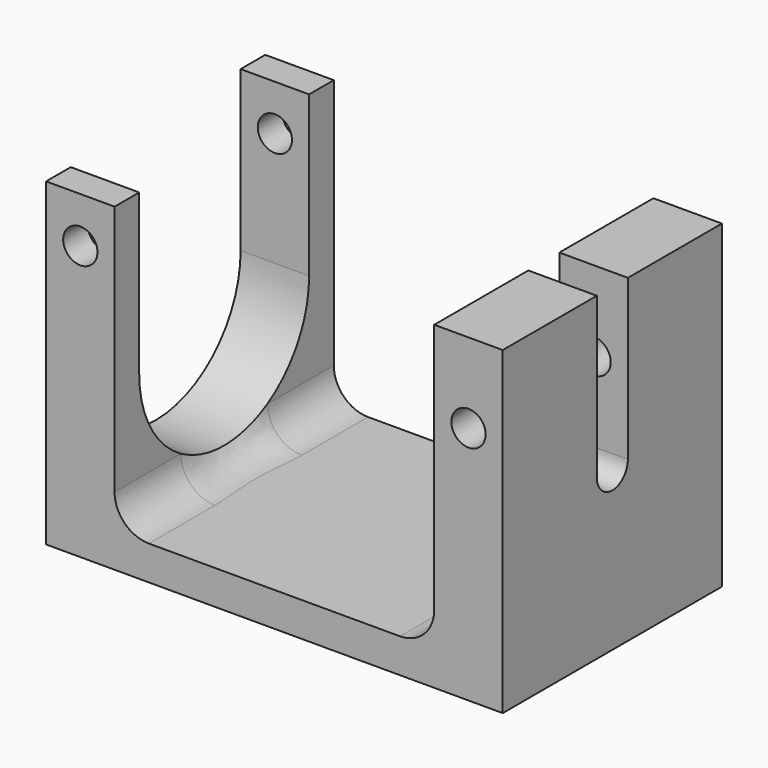
from build123d import *

# Parameters (mm, degrees)
SKETCH_W        = 40
SKETCH_H        = 24
PAD_DEPTH       = 3
SKETCH001_W     = 6
SKETCH001_H     = 24
PAD001_DEPTH    = 25
POCKET_DEPTH    = 6
POCKET001_DEPTH = 6
SKETCH005_R     = 1.5
POCKET002_DEPTH = 24.001
FILLET_R        = 3


with BuildPart() as part:
    # Sketch → Pad (new body)
    with BuildSketch(Plane.XY):
        Rectangle(SKETCH_W, SKETCH_H)
    extrude(amount=PAD_DEPTH)

    # Sketch001 (on Face6 of Pad) → Pad001 (join)
    with BuildSketch(Plane.XY.offset(3)):
        with Locations((-17, 0)):
            Rectangle(SKETCH001_W, SKETCH001_H)
        with Locations((17, 0)):
            Rectangle(SKETCH001_W, SKETCH001_H)
    extrude(amount=PAD001_DEPTH)

    # Sketch002 (on Face9 of Pad001) → Pocket (cut)
    with BuildSketch(Plane.YZ.offset(20)):
        with BuildLine():
            Line((-1.7, 28), (1.7, 28))
            Line((1.7, 28), (1.7, 13.999992))
            ThreePointArc((-1.7, 13.999989), (1e-06, 12.3), (1.7, 13.999992))
            Line((-1.7, 13.999989), (-1.7, 28))
        make_face()
    extrude(amount=-POCKET_DEPTH, mode=Mode.SUBTRACT)

    # Sketch004 (on Face12 of Pocket) → Pocket001 (cut)
    with BuildSketch(Plane(origin=(-20, 0, 0), x_dir=(0, -1, 0), z_dir=(-1, 0, 0))):
        with BuildLine():
            Line((-9.3, 28), (9.3, 28))
            Line((9.3, 28), (9.3, 14.000032))
            ThreePointArc((-9.3, 13.999973), (3e-05, 4.7), (9.3, 14.000032))
            Line((-9.3, 13.999973), (-9.3, 28))
        make_face()
    extrude(amount=-POCKET001_DEPTH, mode=Mode.SUBTRACT)

    # Sketch005 (on Face10 of Pocket001) → Pocket002 (cut, through all)
    with BuildSketch(Plane.XZ.offset(12)):
        with Locations((17, 21)):
            Circle(SKETCH005_R)
        with Locations((-17, 24)):
            Circle(SKETCH005_R)
    extrude(amount=-POCKET002_DEPTH, mode=Mode.SUBTRACT)

    # Fillet
    fillet_edges = [part.edges().sort_by_distance(p)[0] for p in [
        (-14, 0, 3),
        (14, 0, 3),
    ]]
    fillet(fillet_edges, radius=FILLET_R)


solid = part.part
